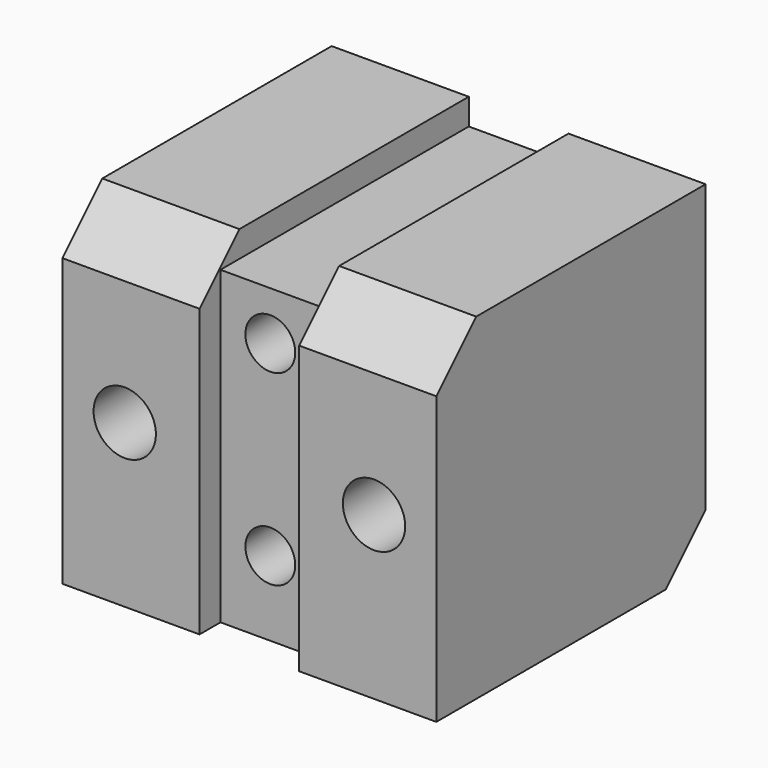
from build123d import *

# Parameters (mm, degrees)
F0_W      = 30
F0_H      = 27
F1_DEPTH  = 27
F2_SIZE   = 4
F4_D      = 5
F5_W      = 8
F5_H      = 23
F5_H_2    = 4
F6_DEPTH  = 2.1
F7_W      = 8
F7_H      = 28.8321655244
F7_H_2    = 23
F7_H_3    = 5.8321655244
F8_DEPTH  = 2.1
F9_W      = 8
F9_H      = 33.7052789075
F9_H_2    = 5.6568542495
F9_H_3    = 30.637866843
F10_DEPTH = 14.5
F12_D     = 4
F12_DEPTH = 4
F12_TIP   = 1.2017212381


with BuildPart() as f1:
    # F0 (on Front) → F1 (new body)
    with BuildSketch(Plane.XZ):
        Rectangle(F0_W, F0_H)
    extrude(amount=F1_DEPTH)

    # F2
    f2_edges = [f1.edges().sort_by_distance(p)[0] for p in [
        (0, 0, -13.5),
        (0, -27, 13.5),
    ]]
    chamfer(f2_edges, length=F2_SIZE)

    # F4 (through all)
    with Locations(Plane.XZ.offset(27)):
        with Locations((-10, -0.5), (10, -0.5)):
            Hole(F4_D / 2)

    # F5 (on face) → F6 (cut)
    with BuildSketch(Plane.XZ.offset(27)):
        with Locations((0, -2)):
            Rectangle(F5_W, F5_H)
        with Locations((0, 11.5)):
            Rectangle(F5_W, F5_H_2)
    extrude(amount=-F6_DEPTH, mode=Mode.SUBTRACT)

    # F7 (on face) → F8 (cut)
    with BuildSketch(Plane.XY.offset(13.5)):
        with Locations((0, 14.4160827622)):
            Rectangle(F7_W, F7_H)
        with Locations((0, -11.5)):
            Rectangle(F7_W, F7_H_2)
        with Locations((0, -25.9160827622)):
            Rectangle(F7_W, F7_H_3)
    extrude(amount=-F8_DEPTH, mode=Mode.SUBTRACT)

    # F9 (on face) → F10 (cut)
    with BuildSketch(Plane(origin=(0, 4.75, -4.75), x_dir=(-1, 0, 0), z_dir=(0, 0.7071067812, -0.7071067812))):
        with Locations((0, -29.2270081245)):
            Rectangle(F9_W, F9_H)
        with Locations((0, -9.545941546)):
            Rectangle(F9_W, F9_H_2)
        with Locations((0, 8.6014190002)):
            Rectangle(F9_W, F9_H_3)
    extrude(amount=-F10_DEPTH, mode=Mode.SUBTRACT)

    # F12
    with Locations(Plane.XZ.offset(24.9)):
        with Locations((0, -7.5), (0, 7.5)):
            Hole(F12_D / 2, depth=F12_DEPTH)
            with Locations((0, 0, -(F12_DEPTH + F12_TIP / 2))):  # 118° drill point
                Cone(0, F12_D / 2, F12_TIP, mode=Mode.SUBTRACT)


solid = f1.part
